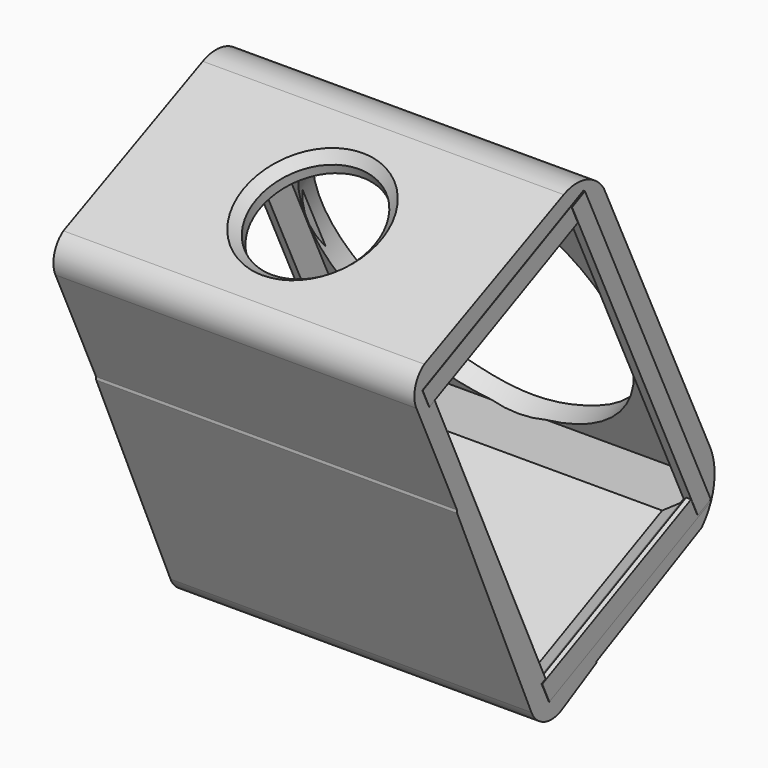
from build123d import *

# Parameters (mm, degrees)
PAD_DEPTH       = 19.5
POCKET_DEPTH    = 42
SKETCH003_R     = 6.4432774511
POCKET001_DEPTH = 5
SKETCH004_R     = 17.169517
POCKET002_DEPTH = 5
PAD001_DEPTH    = 40
PAD002_DEPTH    = 24
CHAMFER_SIZE    = 1


with BuildPart() as part:
    # Sketch → Pad (new body, symmetric)
    with BuildSketch(Plane.YZ):
        with BuildLine():
            Line((-24.615255, -40.645466), (-24.615255, -11.9915260199))
            Line((-24.615255, -11.9915260199), (-30.1099110656, -0.070655828))
            ThreePointArc((-29.0420891926, 3.6862219759), (-30.2710994658, 2.00535199), (-30.1099110656, -0.070655828))
            Line((-29.0420891926, 3.6862219759), (-10.21399901, 12.1607312799))
            ThreePointArc((-4.7944050935, 10.5585189909), (-7.2070537123, 12.364749952), (-10.21399901, 12.1607312799))
            Line((-4.7944050935, 10.5585189909), (9.5435566353, -19.8681705288))
            ThreePointArc((8.4289379194, -27.0849824103), (10.0898273983, -23.6470216852), (9.5435566353, -19.8681705288))
            Line((8.4289379194, -27.0849824103), (-5.794836, -34.045753))
            Line((-5.794836, -34.045753), (-5.794836, -40.645466))
            Line((-5.794836, -40.645466), (-24.615255, -40.645466))
        make_face()
        Polygon((-27.981411, 0.422502), (-27.429825, 1.92854), (-9.861721, 10.084236), (-6.402346, 8.970874), (8.119048, -22.100113), (7.085211, -25.957119), (-10.374684, -34.147896), (-12.253858, -33.776932), align=None, mode=Mode.SUBTRACT)
    extrude(amount=PAD_DEPTH, both=True)

    # Sketch002 (on Face20 of Pad) → Pocket (cut)
    with BuildSketch(Plane.YZ.offset(19.5)):
        with BuildLine():
            Line((-24.841486, -11.770947), (-14.572847112, -35.3198980182))
            ThreePointArc((-14.572847112, -35.3198980182), (-12.7694099446, -36.9511784812), (-10.3532255429, -36.6763794588))
            Line((-10.3532255429, -36.6763794588), (-4.861786, -33.667202))
            Line((-4.861786, -33.667202), (-4.861786, -40.862381))
            Line((-4.861786, -40.862381), (-24.841486, -40.862381))
            Line((-24.841486, -40.862381), (-24.841486, -11.770947))
        make_face()
    extrude(amount=-POCKET_DEPTH, mode=Mode.SUBTRACT)

    # Sketch003 (on Face13 of Pocket) → Pocket001 (cut)
    with BuildSketch(Plane(origin=(0, -6.272118922, 13.9349685583), x_dir=(0, -0.9118876327, -0.4104399412), z_dir=(0, -0.4104399412, 0.9118876327))):
        with Locations((14.81313, 0.011856)):
            Circle(SKETCH003_R)
    extrude(amount=-POCKET001_DEPTH, mode=Mode.SUBTRACT)

    # Sketch004 (on Face11 of Pocket001) → Pocket002 (cut)
    with BuildSketch(Plane(origin=(0, 0.1481790527, 0.06982638), x_dir=(0, -0.426272087, 0.9045949966), z_dir=(0, 0.9045949966, 0.426272087))):
        with Locations((-6.539624, 0)):
            Circle(SKETCH004_R)
    extrude(amount=-POCKET002_DEPTH, mode=Mode.SUBTRACT)

    # Sketch005 (on Face18 of Pocket002) → Pad001 (join)
    with BuildSketch(Plane(origin=(0, 11.2585506109, -23.9993240592), x_dir=(0, -0.9053303403, -0.4247081056), z_dir=(0, -0.4247081056, 0.9053303403))):
        Polygon((1.91594, 19.597263), (3.845239, 19.597263), (3.845239, 18.66189), (1.91594, 17.128572), align=None)
        Polygon((1.518515, -16.771593), (3.74988, -18.737337), (3.74988, -19.519863), (1.518515, -19.509285), align=None)
    extrude(amount=PAD001_DEPTH)

    # Sketch006 (on Face35 of Pad001) → Pad002 (join)
    with BuildSketch(Plane(origin=(0, -1.8135690856, -0.8475930049), x_dir=(0, 0.4234025651, -0.905941647), z_dir=(0, -0.905941647, -0.4234025651))):
        Polygon((-13.586584, 19.537718), (-11.460353, 19.537718), (-11.460353, 18.955914), (-12.613384, 17.940399), (-13.586584, 15.782431), align=None)
        Polygon((24.452187, 19.56831), (24.452187, 19.02969), (25.618814, 17.988846), (26.755948, 15.849336), (26.755948, 19.55965), align=None)
        Polygon((-13.772037, -16.08662), (-12.642, -18.040642), (-11.794474, -18.888168), (-11.818016, -19.547356), (-13.772037, -19.547356), align=None)
        Polygon((26.955989, -14.6143), (25.756637, -17.959862), (24.509941, -18.985624), (24.509941, -19.5853), (26.955989, -19.5853), align=None)
    extrude(amount=PAD002_DEPTH)

    # Chamfer
    chamfer_edges = [part.edges().sort_by_distance(p)[0] for p in [
        (0.011856, -13.904484, 10.499647),
    ]]
    chamfer(chamfer_edges, length=CHAMFER_SIZE)


solid = part.part
